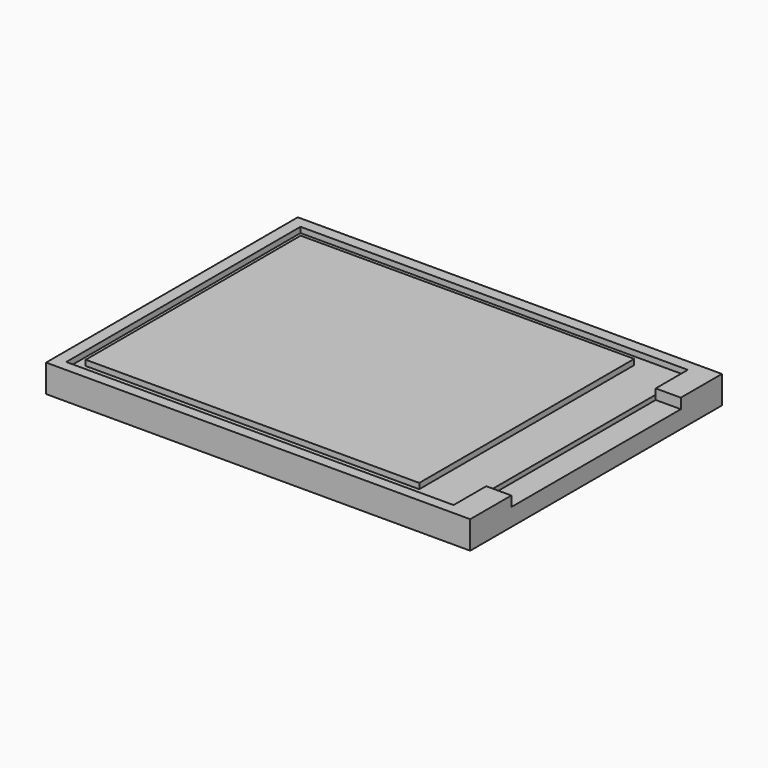
from build123d import *

# Parameters (mm, degrees)
F0_W     = 45.83
F0_H     = 34
F1_DEPTH = 3
F2_W     = 36.04
F2_H     = 29.03
F3_DEPTH = 0.6
F2_W_2   = 2.711302
F2_H_2   = 22.891694
F4_DEPTH = 1.1


with BuildPart() as f1:
    # F0 (on Top) → F1 (new body)
    with BuildSketch(Plane.XY):
        Rectangle(F0_W, F0_H)
    extrude(amount=F1_DEPTH)

    # F2 (on face) → F3 (cut)
    with BuildSketch(Plane.XY.offset(3)):
        Polygon((20.203698, 15.784912), (-21.650197, 15.784912), (-21.650197, -15.8541), (20.203698, -15.8541), (20.203698, -11.445847), (20.203698, 11.445847), align=None)
        with Locations((-2.605, 0.008636)):
            Rectangle(F2_W, F2_H, mode=Mode.SUBTRACT)
    extrude(amount=-F3_DEPTH, mode=Mode.SUBTRACT)

    # F2 (on face) → F4 (cut)
    with BuildSketch(Plane.XY.offset(3)):
        with Locations((21.559349, 0)):
            Rectangle(F2_W_2, F2_H_2)
    extrude(amount=-F4_DEPTH, mode=Mode.SUBTRACT)


with BuildPart() as f5_1:
    # F5: copy of F1
    add(f1.part)


solid = f5_1.part
